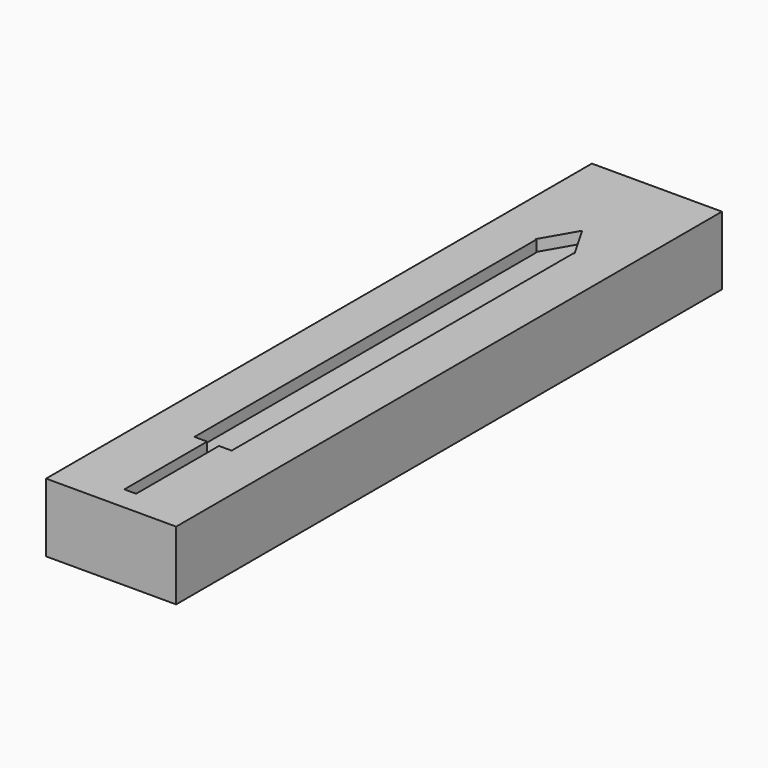
from build123d import *

# Parameters (mm, degrees)
F0_W     = 28.933504
F0_H     = 151.753276
F1_DEPTH = 15.24
F2_W     = 2.633254
F2_H     = 23.030557
F3_DEPTH = 2.54


with BuildPart() as f1:
    # F0 (on Top) → F1 (new body)
    with BuildSketch(Plane.XY):
        Rectangle(F0_W, F0_H)
    extrude(amount=F1_DEPTH)

    # F2 (on face) → F3 (cut)
    with BuildSketch(Plane.XY.offset(15.24)):
        Polygon((-4.133359, 47.533616), (4.133359, 47.533616), (4.368631, 47.533616), (0, 55.100307), (-4.368631, 47.533616), align=None)
        Polygon((4.133359, -47.533616), (4.133359, 47.533616), (-4.133359, 47.533616), (-4.133359, -47.533616), (-1.316627, -47.533616), (1.316627, -47.533616), align=None)
        with Locations((0, -59.048894)):
            Rectangle(F2_W, F2_H)
    extrude(amount=-F3_DEPTH, mode=Mode.SUBTRACT)


solid = f1.part
